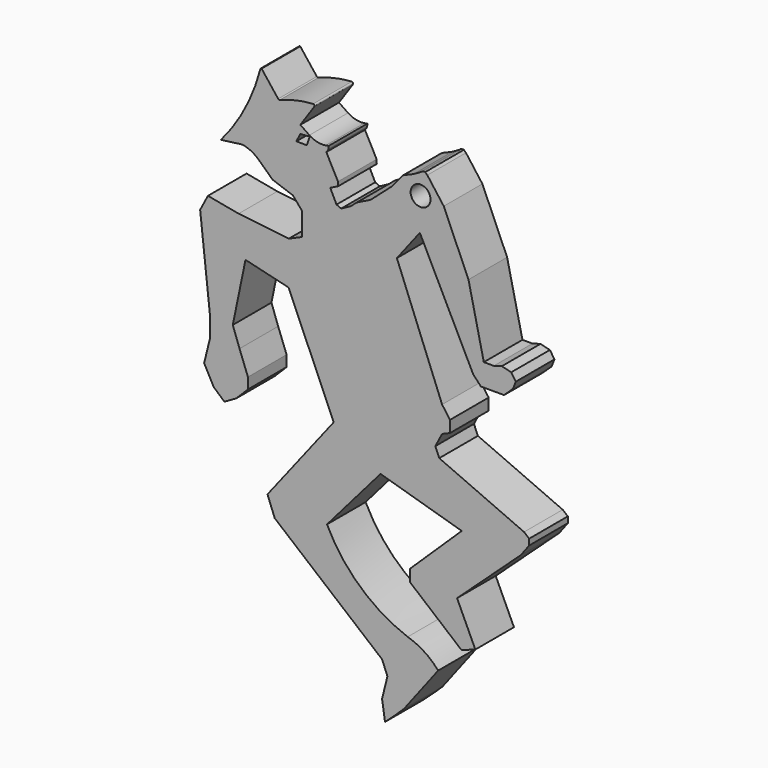
from build123d import *

# Parameters (mm, degrees)
F1_DEPTH = 8.636
F3_D     = 3.556
F5_DEPTH = 25.4


with BuildPart() as f1:
    # F0 (on Front) → F1 (new body)
    with BuildSketch(Plane.XZ):
        with BuildLine():
            Line((-39.490599, 56.54397), (-42.455846, 60.334262))
            ThreePointArc((-42.455846, 60.334262), (-42.595136, 60.320247), (-42.671131, 60.202675))
            ThreePointArc((-42.671131, 60.202675), (-45.433619, 53.07891), (-49.732476, 46.762329))
            Line((-49.732476, 46.762329), (-45.894753, 47.265854))
            ThreePointArc((-45.894753, 47.265854), (-44.359586, 46.782597), (-43.033395, 45.870733))
            Line((-43.033395, 45.870733), (-40.480834, 43.487869))
            Line((-40.480834, 43.487869), (-36.865097, 42.211726))
            Line((-36.865097, 42.211726), (-35.26992, 40.350687))
            Line((-35.26992, 40.350687), (-35.26992, 36.170255))
            Line((-35.26992, 36.170255), (-37.580833, 35.163075))
            Line((-37.580833, 35.163075), (-46.559945, 36.170255))
            Line((-46.559945, 36.170255), (-52.048847, 37.195779))
            Line((-52.048847, 37.195779), (-53.439979, 34.539986))
            Line((-53.439979, 34.539986), (-51.661003, 18.294973))
            Line((-51.661003, 18.294973), (-51.661003, 14.98081))
            Line((-51.661003, 14.98081), (-52.724455, 10.638124))
            Line((-52.724455, 10.638124), (-51.022932, 7.44777))
            Line((-51.022932, 7.44777), (-49.108718, 5.746248))
            Line((-49.108718, 5.746248), (-47.003191, 6.949406))
            Line((-47.003191, 6.949406), (-44.897664, 9.054932))
            Line((-44.897664, 9.054932), (-44.897664, 11.010064))
            Line((-44.897664, 11.010064), (-46.401612, 14.98081))
            Line((-46.401612, 14.98081), (-47.602195, 18.323077))
            Line((-47.602195, 18.323077), (-45.334391, 29.303517))
            Line((-45.334391, 29.303517), (-37.631679, 27.457869))
            Line((-37.631679, 27.457869), (-29.565466, 8.868489))
            Line((-29.565466, 8.868489), (-41.40104, -6.316776))
            Line((-41.40104, -6.316776), (-40.112628, -9.657612))
            Line((-40.112628, -9.657612), (-20.918895, -25.618885))
            Line((-20.918895, -25.618885), (-19.961456, -27.996508))
            Line((-19.961456, -27.996508), (-20.918895, -31.849388))
            Line((-20.918895, -31.849388), (-20.392513, -35.308465))
            Line((-20.392513, -35.308465), (-18.362185, -33.456158))
            Line((-18.362185, -33.456158), (-17.008632, -32.150175))
            Line((-17.008632, -32.150175), (-10.893537, -24.137914))
            ThreePointArc((-10.893537, -24.137914), (-13.35981, -21.972545), (-16.342713, -20.603744))
            ThreePointArc((-16.342713, -20.603744), (-24.815375, -15.496005), (-30.766526, -7.592917))
            Line((-30.766526, -7.592917), (-21.195464, 3.466977))
            Line((-21.195464, 3.466977), (-6.674734, -0.787208))
            Line((-6.674734, -0.787208), (-15.962735, -9.781499))
            Line((-15.962735, -9.781499), (-15.962735, -11.829657))
            Line((-15.962735, -11.829657), (-6.730688, -19.544106))
            Line((-6.730688, -19.544106), (-4.248045, -18.667899))
            Line((-4.248045, -18.667899), (-7.509657, -11.641931))
            Line((-7.509657, -11.641931), (3.868554, -1.177071))
            Line((3.868554, -1.177071), (5.38615, 0.846392))
            Line((5.38615, 0.846392), (5.38615, 1.921356))
            Line((5.38615, 1.921356), (4.464583, 2.667227))
            Line((4.464583, 2.667227), (-10.695753, 9.356373))
            Line((-10.695753, 9.356373), (-11.397142, 11.017655))
            Line((-11.397142, 11.017655), (-10.18736, 13.336552))
            Line((-10.18736, 13.336552), (-8.770354, 13.934808))
            Line((-8.770354, 13.934808), (-8.770354, 16.013902))
            Line((-8.770354, 16.013902), (-10.18736, 17.962622))
            Line((-10.18736, 17.962622), (-18.269591, 38.380887))
            Line((-18.269591, 38.380887), (-14.161164, 43.704748))
            Line((-14.161164, 43.704748), (-4.64041, 24.543248))
            Line((-4.64041, 24.543248), (-3.257924, 23.054415))
            Line((-3.257924, 23.054415), (-1.556402, 23.054415))
            Line((-1.556402, 23.054415), (0.89488, 23.054415))
            Line((0.89488, 23.054415), (2.474027, 24.543248))
            Line((2.474027, 24.543248), (3.000409, 25.854964))
            Line((3.000409, 25.854964), (2.173235, 27.058123))
            Line((2.173235, 27.058123), (0.486221, 27.465567))
            Line((0.486221, 27.465567), (-0.942529, 27.058123))
            Line((-0.942529, 27.058123), (-2.728466, 27.058123))
            Line((-2.728466, 27.058123), (-5.468886, 39.159644))
            Line((-5.468886, 39.159644), (-9.891379, 49.272485))
            Line((-9.891379, 49.272485), (-12.826882, 53.211112))
            Line((-12.826882, 53.211112), (-13.20135, 53.563222))
            Line((-13.20135, 53.563222), (-13.536695, 53.563222))
            Line((-13.536695, 53.563222), (-13.782615, 53.501744))
            Line((-13.782615, 53.501744), (-13.911596, 53.357568))
            Line((-13.911596, 53.357568), (-15.284945, 52.576538))
            Line((-15.284945, 52.576538), (-17.14508, 51.778425))
            Line((-17.14508, 51.778425), (-19.250607, 49.296912))
            Line((-19.250607, 49.296912), (-22.991639, 46.002153))
            Line((-22.991639, 46.002153), (-25.414456, 44.81658))
            Line((-25.414456, 44.81658), (-26.532697, 43.852221))
            Line((-26.532697, 43.852221), (-28.234769, 42.931135))
            Line((-28.234769, 42.931135), (-29.056527, 43.291926))
            Line((-29.056527, 43.291926), (-30.184661, 45.565556))
            Line((-30.184661, 45.565556), (-28.773969, 46.265516))
            Line((-28.773969, 46.265516), (-28.800942, 46.998821))
            Line((-28.800942, 46.998821), (-30.88334, 50.958432))
            ThreePointArc((-30.88334, 50.958432), (-30.692044, 51.200237), (-30.552286, 51.475067))
            ThreePointArc((-30.552286, 51.475067), (-30.469588, 51.772006), (-30.447163, 52.079428))
            Line((-30.447163, 52.079428), (-30.995147, 51.97043))
            ThreePointArc((-30.995147, 51.97043), (-32.513604, 52.028513), (-33.906634, 52.635599))
            Line((-33.906634, 52.635599), (-35.530325, 53.740148))
            Line((-35.530325, 53.740148), (-33.031618, 57.413258))
            ThreePointArc((-33.031618, 57.413258), (-33.016248, 57.657381), (-33.222877, 57.788287))
            ThreePointArc((-33.222877, 57.788287), (-36.255309, 57.358332), (-39.185994, 56.468622))
            ThreePointArc((-39.185994, 56.468622), (-39.351294, 56.453752), (-39.490599, 56.54397))
        make_face()
    extrude(amount=F1_DEPTH)

    # F3 (through all)
    with Locations(Plane.XZ.offset(8.636)):
        with Locations((-14.032521, 49.561661)):
            Hole(F3_D / 2)

    # F4 (on face) → F5 (cut)
    with BuildSketch(Plane.XZ.offset(8.636)):
        Polygon((-36.247086, 50.90744), (-34.366347, 50.90744), (-33.865116, 52.420092), (-35.530989, 52.308187), align=None)
    extrude(amount=-F5_DEPTH, mode=Mode.SUBTRACT)


solid = f1.part
